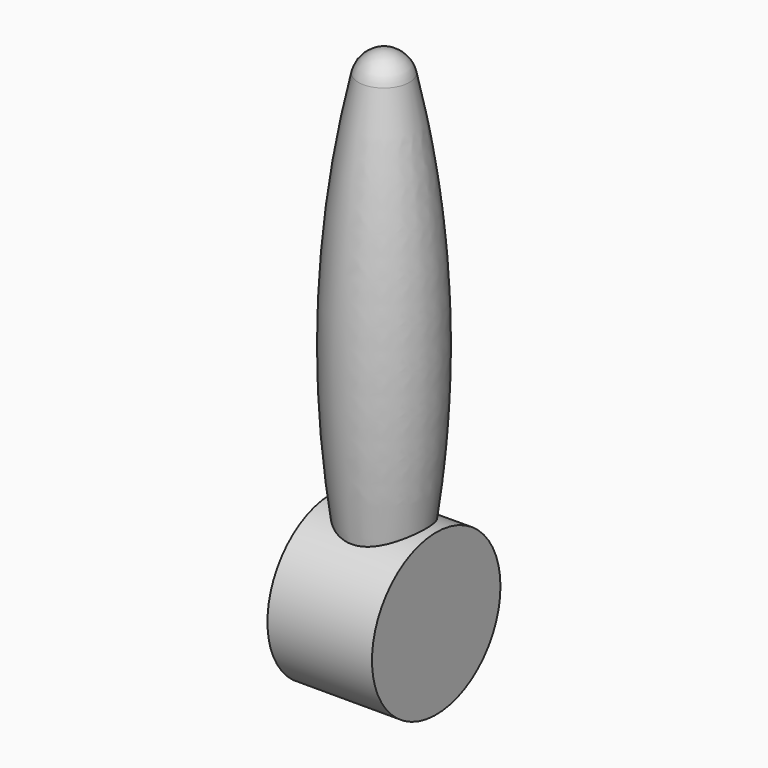
from build123d import *

# Parameters (mm, degrees)
F3_R     = 14.626882
F4_DEPTH = 9.525


with BuildPart() as f1:
    # F0 (on Right) → F1 (revolve)
    with BuildSketch(Plane.YZ):
        with BuildLine():
            ThreePointArc((0, 88.9), (-2.972066, 87.858821), (-4.644624, 85.19053))
            ThreePointArc((-4.644624, 85.19053), (-9.478887, 45.856389), (-6.35, 6.35))
            Line((-6.35, 6.35), (0, 6.35))
            Line((0, 6.35), (0, 88.9))
        make_face()
    revolve(axis=Axis((0, 0, 47.625), (0, 0, -1)))

    # F3 (on Right) → F4 (join, symmetric)
    with BuildSketch(Plane.YZ):
        Circle(F3_R)
    extrude(amount=F4_DEPTH, both=True)


solid = f1.part
